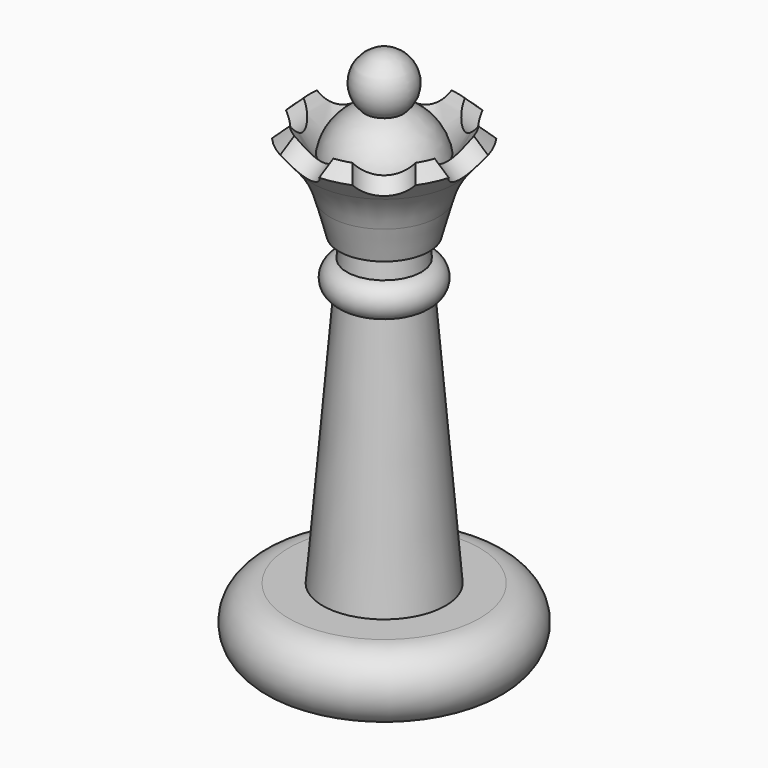
from build123d import *

# Parameters (mm, degrees)
CYLINDER_R           = 2
CYLINDER_DEPTH       = 4
CYLINDER_PITCH_ANGLE = -49
ARRAY_COUNT          = 7


with BuildPart() as revolution:
    # Sketch → Revolution (revolve)
    with BuildSketch(Plane.XZ):
        with BuildLine():
            Line((0, 0), (7, 0))
            ThreePointArc((7, 0), (9.5, 2.5), (7, 5))
            Line((7, 5), (0, 5))
            Line((0, 5), (0, 0))
        make_face()
        with BuildLine():
            Line((0, 5), (4.5, 5))
            Line((4.5, 5), (2.5, 28.877501))
            ThreePointArc((2.5, 28.877501), (3.949684, 32.632456), (1.4, 35.746999))
            ThreePointArc((1.4, 35.746999), (1.961762, 38.061573), (0, 39.412246))
            Line((0, 5), (0, 39.412246))
        make_face()
    revolve(axis=Axis((0, 0, 0), (0, 0, 1)))


with BuildPart() as array:
    # Cylinder → Cylinder (new body)
    with BuildSketch(Plane.XY):
        Circle(CYLINDER_R)
    extrude(amount=CYLINDER_DEPTH)


with BuildPart() as array_1:
    # Cylinder pitch: moved
    add(array.part.rotate(Axis((0, 0, 0), (0, 1, 0)), CYLINDER_PITCH_ANGLE))


with BuildPart() as array_2:
    # Cylinder placement: moved
    add(array_1.part.moved(Location((8, 0, 33.5))))

    # Array: Array ×7 about axis
    array_axis = Axis((0, 0, 0), (0, 0, 1))


with BuildPart() as array_3:
    add(array_2.part)
    for i in range(1, ARRAY_COUNT):
        add(array_2.part.rotate(array_axis, i * 360 / ARRAY_COUNT))


with BuildPart() as cut:
    # Sketch001 → Revolution001 (revolve)
    with BuildSketch(Plane.XZ):
        with BuildLine():
            Line((5.450337, 34.817464), (6.437731, 33.911287))
            Line((5.300568, 32.543996), (6.437731, 33.911287))
            ThreePointArc((5.300568, 32.543996), (4.487536, 31.307223), (3.970154, 29.920521))
            Line((3.970154, 29.920521), (3.300919, 27.482554))
            Line((1.685944, 26.796302), (3.300919, 27.482554))
            Line((0.665482, 28.426435), (1.685944, 26.796302))
            Line((0.665482, 28.426435), (5.450337, 34.817464))
        make_face()
    revolve(axis=Axis((0, 0, 0), (0, 0, 1)))

    # Cut: cut Array
    add(array_3.part, mode=Mode.SUBTRACT)


with BuildPart() as revolution002:
    # Sketch002 → Revolution002 (revolve)
    with BuildSketch(Plane.XZ):
        with BuildLine():
            Line((0, 0), (2.5, 0))
            Line((2.5, 23.5), (2.5, 0))
            ThreePointArc((2.5, 23.5), (3.75, 24.75), (2.5, 26))
            Line((2.5, 26), (0, 26))
            Line((0, 26), (0, 0))
        make_face()
    revolve(axis=Axis((0, 0, 0), (0, 0, 1)))


solid = Compound([revolution.part, cut.part, revolution002.part])
